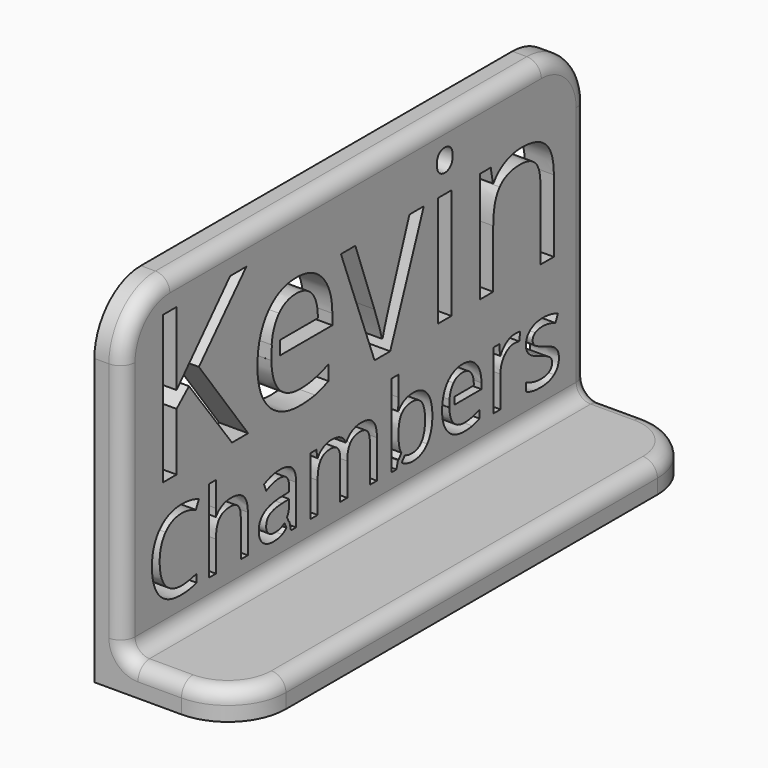
from build123d import *

# Parameters (mm, degrees)
F0_W     = 100
F0_H     = 54.1188832726
F0_W_2   = 2.8883255009
F0_H_2   = 19.060722236
F0_W_3   = 1.0477900505
F0_H_3   = 1.2339983105
F0_H_4   = 0.1005996912
F1_DEPTH = 5
F2_R     = 10
F3_W     = 25
F3_H     = 100
F4_DEPTH = 5
F5_R     = 10
F6_R     = 2.5


with BuildPart() as f1:
    # F0 (on Right) → F1 (new body)
    with BuildSketch(Plane.YZ):
        with Locations((50, 27.0594416363)):
            Rectangle(F0_W, F0_H)
        with BuildLine():
            add(Edge.make_bspline(
                [(15.5913314705, 16.4510364546), (14.0736889986, 17.1616089415), (12.5560465267, 17.1616089415)],
                knots=[0, 0, 0, 1, 1, 1], degree=2))
            add(Edge.make_bspline(
                [(12.5560465267, 17.1616089415), (10.3541490675, 17.1616089415), (9.0792124245, 15.6951393853)],
                knots=[0, 0, 0, 1, 1, 1], degree=2))
            add(Edge.make_bspline(
                [(9.0792124245, 15.6951393853), (7.8042757814, 14.2286698291), (7.8042757814, 11.678796543)],
                knots=[0, 0, 0, 1, 1, 1], degree=2))
            add(Edge.make_bspline(
                [(7.8042757814, 11.678796543), (7.8042757814, 9.0587432582), (9.033887842, 7.6273637013)],
                knots=[0, 0, 0, 1, 1, 1], degree=2))
            add(Edge.make_bspline(
                [(9.033887842, 7.6273637013), (10.2634999025, 6.1959841445), (12.5385015271, 6.1959841445)],
                knots=[0, 0, 0, 1, 1, 1], degree=2))
            add(Edge.make_bspline(
                [(12.5385015271, 6.1959841445), (13.9362531678, 6.1959841445), (15.7287673013, 6.6989408019)],
                knots=[0, 0, 0, 1, 1, 1], degree=2))
            Line((15.7287673013, 6.6989408019), (15.7287673013, 5.3392033271))
            add(Edge.make_bspline(
                [(15.7287673013, 5.3392033271), (14.3397881604, 4.8157775034), (12.3016440315, 4.8157775034)],
                knots=[0, 0, 0, 1, 1, 1], degree=2))
            add(Edge.make_bspline(
                [(12.3016440315, 4.8157775034), (9.3511599194, 4.8157775034), (7.7472545325, 6.6082916369)],
                knots=[0, 0, 0, 1, 1, 1], degree=2))
            add(Edge.make_bspline(
                [(7.7472545325, 6.6082916369), (6.1433491455, 8.4008057704), (6.1433491455, 11.6992657093)],
                knots=[0, 0, 0, 1, 1, 1], degree=2))
            add(Edge.make_bspline(
                [(6.1433491455, 11.6992657093), (6.1433491455, 13.7637273377), (6.9153291312, 15.316459809)],
                knots=[0, 0, 0, 1, 1, 1], degree=2))
            add(Edge.make_bspline(
                [(6.9153291312, 15.316459809), (7.6873091169, 16.8691922802), (9.1450061732, 17.7098901813)],
                knots=[0, 0, 0, 1, 1, 1], degree=2))
            add(Edge.make_bspline(
                [(9.1450061732, 17.7098901813), (10.6027032296, 18.5505880824), (12.576515693, 18.5505880824)],
                knots=[0, 0, 0, 1, 1, 1], degree=2))
            add(Edge.make_bspline(
                [(12.576515693, 18.5505880824), (14.6760673208, 18.5505880824), (16.2492689583, 17.7844564299)],
                knots=[0, 0, 0, 1, 1, 1], degree=2))
            Line((16.2492689583, 17.7844564299), (15.5913314705, 16.4510364546))
        make_face(mode=Mode.SUBTRACT)
        with BuildLine():
            Line((26.7879654299, 5), (25.270322958, 5))
            Line((25.270322958, 5), (25.270322958, 11.4799532133))
            add(Edge.make_bspline(
                [(25.270322958, 11.4799532133), (25.270322958, 12.7022548574), (24.7132692183, 13.3060952629)],
                knots=[0, 0, 0, 1, 1, 1], degree=2))
            add(Edge.make_bspline(
                [(24.7132692183, 13.3060952629), (24.1562154786, 13.9099356683), (22.9660796673, 13.9099356683)],
                knots=[0, 0, 0, 1, 1, 1], degree=2))
            add(Edge.make_bspline(
                [(22.9660796673, 13.9099356683), (21.3870296965, 13.9099356683), (20.6603742933, 13.0502306843)],
                knots=[0, 0, 0, 1, 1, 1], degree=2))
            add(Edge.make_bspline(
                [(20.6603742933, 13.0502306843), (19.9337188901, 12.1905257002), (19.9337188901, 10.237182403)],
                knots=[0, 0, 0, 1, 1, 1], degree=2))
            Line((19.9337188901, 10.237182403), (19.9337188901, 5))
            Line((19.9337188901, 5), (18.4160764182, 5))
            Line((18.4160764182, 5), (18.4160764182, 19.2202222367))
            Line((18.4160764182, 19.2202222367), (19.9337188901, 19.2202222367))
            Line((19.9337188901, 19.2202222367), (19.9337188901, 14.915848983))
            add(Edge.make_bspline(
                [(19.9337188901, 14.915848983), (19.9337188901, 14.1380206641), (19.8606147248, 13.6262915069)],
                knots=[0, 0, 0, 1, 1, 1], degree=2))
            Line((19.8606147248, 13.6262915069), (19.9512638898, 13.6262915069))
            add(Edge.make_bspline(
                [(19.9512638898, 13.6262915069), (20.3986613815, 14.3485606602), (21.2262005328, 14.7637923192)],
                knots=[0, 0, 0, 1, 1, 1], degree=2))
            add(Edge.make_bspline(
                [(21.2262005328, 14.7637923192), (22.0537396842, 15.1790239782), (23.1122879979, 15.1790239782)],
                knots=[0, 0, 0, 1, 1, 1], degree=2))
            add(Edge.make_bspline(
                [(23.1122879979, 15.1790239782), (24.9486646306, 15.1790239782), (25.8683150302, 14.3061602443)],
                knots=[0, 0, 0, 1, 1, 1], degree=2))
            add(Edge.make_bspline(
                [(25.8683150302, 14.3061602443), (26.7879654299, 13.4332965105), (26.7879654299, 11.5325882124)],
                knots=[0, 0, 0, 1, 1, 1], degree=2))
            Line((26.7879654299, 11.5325882124), (26.7879654299, 5))
        make_face(mode=Mode.SUBTRACT)
        with BuildLine():
            Line((35.660579687, 6.3949383283), (35.7361994684, 6.2300823629))
            Line((35.7361994684, 6.2300823629), (35.2652147412, 5.4408507422))
            Line((35.2652147412, 5.4408507422), (35.1057176172, 5.787440133))
            add(Edge.make_bspline(
                [(35.1057176172, 5.787440133), (34.648746513, 5.3554479644), (34.193417376, 5.1505945805)],
                knots=[0.3881632753, 0.3881632753, 0.3881632753, 1, 1, 1], degree=2))
            add(Edge.make_bspline(
                [(34.193417376, 5.1505945805), (33.4492169732, 4.8157775034), (32.3321853272, 4.8157775034)],
                knots=[0, 0, 0, 1, 1, 1], degree=2))
            add(Edge.make_bspline(
                [(32.3321853272, 4.8157775034), (30.8437845214, 4.8157775034), (29.9987003704, 5.5848333225)],
                knots=[0, 0, 0, 1, 1, 1], degree=2))
            add(Edge.make_bspline(
                [(29.9987003704, 5.5848333225), (29.1536162194, 6.3538891416), (29.1536162194, 7.7691857821)],
                knots=[0, 0, 0, 1, 1, 1], degree=2))
            add(Edge.make_bspline(
                [(29.1536162194, 7.7691857821), (29.1536162194, 10.8015465592), (34.0048086295, 10.9477548899)],
                knots=[0, 0, 0, 1, 1, 1], degree=2))
            Line((34.0048086295, 10.9477548899), (35.7037494314, 11.0033140555))
            Line((35.7037494314, 11.0033140555), (35.7037494314, 11.626161544))
            add(Edge.make_bspline(
                [(35.7037494314, 11.626161544), (35.7037494314, 12.8046006888), (35.1978686074, 13.3660406784)],
                knots=[0, 0, 0, 1, 1, 1], degree=2))
            add(Edge.make_bspline(
                [(35.1978686074, 13.3660406784), (34.6919877835, 13.927480668), (33.5749561375, 13.927480668)],
                knots=[0, 0, 0, 1, 1, 1], degree=2))
            add(Edge.make_bspline(
                [(33.5749561375, 13.927480668), (32.3234128273, 13.927480668), (30.7443628566, 13.1613490155)],
                knots=[0, 0, 0, 1, 1, 1], degree=2))
            Line((30.7443628566, 13.1613490155), (30.2764961986, 14.3222431607))
            add(Edge.make_bspline(
                [(30.2764961986, 14.3222431607), (31.0163103515, 14.7228539866), (31.8979465852, 14.9509389824)],
                knots=[0, 0, 0, 1, 1, 1], degree=2))
            add(Edge.make_bspline(
                [(31.8979465852, 14.9509389824), (32.7795828189, 15.1790239782), (33.6685294691, 15.1790239782)],
                knots=[0, 0, 0, 1, 1, 1], degree=2))
            add(Edge.make_bspline(
                [(33.6685294691, 15.1790239782), (35.458119436, 15.1790239782), (36.32221067, 14.3851127429)],
                knots=[0, 0, 0, 1, 1, 1], degree=2))
            add(Edge.make_bspline(
                [(36.32221067, 14.3851127429), (37.186301904, 13.5912015076), (37.186301904, 11.8367015401)],
                knots=[0, 0, 0, 1, 1, 1], degree=2))
            Line((37.186301904, 11.8367015401), (37.186301904, 5))
            Line((37.186301904, 5), (36.0604977581, 5))
            Line((36.0604977581, 5), (35.759308597, 6.4269933069))
            Line((35.759308597, 6.4269933069), (35.6862044317, 6.4269933069))
            add(Edge.make_bspline(
                [(35.6862044317, 6.4269933069), (35.6733914169, 6.4108769366), (35.660579687, 6.3949383283)],
                knots=[0, 0, 0, 0.0171162748, 0.0171162748, 0.0171162748], degree=2))
        make_face(mode=Mode.SUBTRACT)
        with BuildLine():
            Line((54.5909415816, 5), (53.0762232764, 5))
            Line((53.0762232764, 5), (53.0762232764, 11.5150432127))
            add(Edge.make_bspline(
                [(53.0762232764, 11.5150432127), (53.0762232764, 12.7139515238), (52.5644941192, 13.3119435961)],
                knots=[0, 0, 0, 1, 1, 1], degree=2))
            add(Edge.make_bspline(
                [(52.5644941192, 13.3119435961), (52.052764962, 13.9099356683), (50.973747482, 13.9099356683)],
                knots=[0, 0, 0, 1, 1, 1], degree=2))
            add(Edge.make_bspline(
                [(50.973747482, 13.9099356683), (49.5584508415, 13.9099356683), (48.8815062707, 13.0970173501)],
                knots=[0, 0, 0, 1, 1, 1], degree=2))
            add(Edge.make_bspline(
                [(48.8815062707, 13.0970173501), (48.2045616999, 12.2840990318), (48.2045616999, 10.5939307297)],
                knots=[0, 0, 0, 1, 1, 1], degree=2))
            Line((48.2045616999, 10.5939307297), (48.2045616999, 5))
            Line((48.2045616999, 5), (46.686919228, 5))
            Line((46.686919228, 5), (46.686919228, 11.5150432127))
            add(Edge.make_bspline(
                [(46.686919228, 11.5150432127), (46.686919228, 12.7139515238), (46.1751900708, 13.3119435961)],
                knots=[0, 0, 0, 1, 1, 1], degree=2))
            add(Edge.make_bspline(
                [(46.1751900708, 13.3119435961), (45.6634609136, 13.9099356683), (44.5756709338, 13.9099356683)],
                knots=[0, 0, 0, 1, 1, 1], degree=2))
            add(Edge.make_bspline(
                [(44.5756709338, 13.9099356683), (43.1516017935, 13.9099356683), (42.4892780558, 13.0560790175)],
                knots=[0, 0, 0, 1, 1, 1], degree=2))
            add(Edge.make_bspline(
                [(42.4892780558, 13.0560790175), (41.826954318, 12.2022223666), (41.826954318, 10.2547274027)],
                knots=[0, 0, 0, 1, 1, 1], degree=2))
            Line((41.826954318, 10.2547274027), (41.826954318, 5))
            Line((41.826954318, 5), (40.3093118461, 5))
            Line((40.3093118461, 5), (40.3093118461, 15.0152706479))
            Line((40.3093118461, 15.0152706479), (41.5433101566, 15.0152706479))
            Line((41.5433101566, 15.0152706479), (41.7889401521, 13.6438365066))
            Line((41.7889401521, 13.6438365066), (41.8620443174, 13.6438365066))
            add(Edge.make_bspline(
                [(41.8620443174, 13.6438365066), (42.2918968094, 14.3748781597), (43.0741113783, 14.7871856521)],
                knots=[0, 0, 0, 1, 1, 1], degree=2))
            add(Edge.make_bspline(
                [(43.0741113783, 14.7871856521), (43.8563259471, 15.1994931445), (44.8242250958, 15.1994931445)],
                knots=[0, 0, 0, 1, 1, 1], degree=2))
            add(Edge.make_bspline(
                [(44.8242250958, 15.1994931445), (47.1723308857, 15.1994931445), (47.894600039, 13.497628176)],
                knots=[0, 0, 0, 1, 1, 1], degree=2))
            Line((47.894600039, 13.497628176), (47.9677042043, 13.497628176))
            add(Edge.make_bspline(
                [(47.9677042043, 13.497628176), (48.415101696, 14.2842289947), (49.264572097, 14.7418610696)],
                knots=[0, 0, 0, 1, 1, 1], degree=2))
            add(Edge.make_bspline(
                [(49.264572097, 14.7418610696), (50.1140424979, 15.1994931445), (51.2018324777, 15.1994931445)],
                knots=[0, 0, 0, 1, 1, 1], degree=2))
            add(Edge.make_bspline(
                [(51.2018324777, 15.1994931445), (52.9007732796, 15.1994931445), (53.7458574306, 14.3266294106)],
                knots=[0, 0, 0, 1, 1, 1], degree=2))
            add(Edge.make_bspline(
                [(53.7458574306, 14.3266294106), (54.5909415816, 13.4537656768), (54.5909415816, 11.5325882124)],
                knots=[0, 0, 0, 1, 1, 1], degree=2))
            Line((54.5909415816, 11.5325882124), (54.5909415816, 5))
        make_face(mode=Mode.SUBTRACT)
        with BuildLine():
            Line((59.779737305, 5.355670914), (59.2096596956, 6.2300823629))
            Line((59.2096596956, 6.2300823629), (59.2445982209, 6.2757675735))
            add(Edge.make_bspline(
                [(59.2445982209, 6.2757675735), (59.2395471238, 6.2826460158), (59.2345181623, 6.2895574761)],
                knots=[0.9908032457, 0.9908032457, 0.9908032457, 1, 1, 1], degree=2))
            Line((59.2345181623, 6.2895574761), (59.123399831, 6.2895574761))
            Line((59.123399831, 6.2895574761), (58.8046656703, 5))
            Line((58.8046656703, 5), (57.7168756904, 5))
            Line((57.7168756904, 5), (57.7168756904, 19.2202222367))
            Line((57.7168756904, 19.2202222367), (59.2345181623, 19.2202222367))
            Line((59.2345181623, 19.2202222367), (59.2345181623, 15.7638573007))
            add(Edge.make_bspline(
                [(59.2345181623, 15.7638573007), (59.2345181623, 14.6029631555), (59.161413997, 13.6818506726)],
                knots=[0, 0, 0, 1, 1, 1], degree=2))
            Line((59.161413997, 13.6818506726), (59.2345181623, 13.6818506726))
            add(Edge.make_bspline(
                [(59.2345181623, 13.6818506726), (60.2930664761, 15.1790239782), (62.3779972708, 15.1790239782)],
                knots=[0, 0, 0, 1, 1, 1], degree=2))
            add(Edge.make_bspline(
                [(62.3779972708, 15.1790239782), (64.3518097342, 15.1790239782), (65.443985964, 13.8309831698)],
                knots=[0, 0, 0, 1, 1, 1], degree=2))
            add(Edge.make_bspline(
                [(65.443985964, 13.8309831698), (66.5361621938, 12.4829423614), (66.5361621938, 10.0178699071)],
                knots=[0, 0, 0, 1, 1, 1], degree=2))
            add(Edge.make_bspline(
                [(66.5361621938, 10.0178699071), (66.5361621938, 7.5498732861), (65.4352134642, 6.1828253948)],
                knots=[0, 0, 0, 1, 1, 1], degree=2))
            add(Edge.make_bspline(
                [(65.4352134642, 6.1828253948), (64.3342647346, 4.8157775034), (62.3779972708, 4.8157775034)],
                knots=[0, 0, 0, 1, 1, 1], degree=2))
            add(Edge.make_bspline(
                [(62.3779972708, 4.8157775034), (61.3984014556, 4.8157775034), (60.5898693872, 5.1769120801)],
                knots=[0, 0, 0, 1, 1, 1], degree=2))
            add(Edge.make_bspline(
                [(60.5898693872, 5.1769120801), (60.2395652405, 5.3333770425), (59.9383882027, 5.5631209885)],
                knots=[0, 0, 0, 0.4332594345, 0.4332594345, 0.4332594345], degree=2))
            Line((59.9383882027, 5.5631209885), (59.779737305, 5.355670914))
        make_face(mode=Mode.SUBTRACT)
        with BuildLine():
            Line((71.2961256504, 9.2088952661), (70.2483355999, 9.5830531791))
            Line((70.2483355999, 9.5830531791), (70.2483355999, 9.7342257457))
            Line((70.2483355999, 9.7342257457), (70.2001429593, 9.7342257457))
            add(Edge.make_bspline(
                [(70.2001429593, 9.7342257457), (70.2469296251, 7.9709532783), (71.0920137761, 7.0571512119)],
                knots=[0, 0, 0, 1, 1, 1], degree=2))
            add(Edge.make_bspline(
                [(71.0920137761, 7.0571512119), (71.9370979271, 6.1433491455), (73.4722853987, 6.1433491455)],
                knots=[0, 0, 0, 1, 1, 1], degree=2))
            add(Edge.make_bspline(
                [(73.4722853987, 6.1433491455), (75.0893495354, 6.1433491455), (76.6683995061, 6.818831633)],
                knots=[0, 0, 0, 1, 1, 1], degree=2))
            Line((76.6683995061, 6.818831633), (76.6683995061, 5.4649424914))
            add(Edge.make_bspline(
                [(76.6683995061, 5.4649424914), (75.8642536877, 5.1198908311), (75.1478328676, 4.9678341673)],
                knots=[0, 0, 0, 1, 1, 1], degree=2))
            add(Edge.make_bspline(
                [(75.1478328676, 4.9678341673), (74.4314120476, 4.8157775034), (73.416726233, 4.8157775034)],
                knots=[0, 0, 0, 1, 1, 1], degree=2))
            add(Edge.make_bspline(
                [(73.416726233, 4.8157775034), (71.1972837741, 4.8157775034), (69.9121125479, 6.169666645)],
                knots=[0, 0, 0, 1, 1, 1], degree=2))
            add(Edge.make_bspline(
                [(69.9121125479, 6.169666645), (68.6269413217, 7.5235557866), (68.6269413217, 9.9242965755)],
                knots=[0, 0, 0, 1, 1, 1], degree=2))
            add(Edge.make_bspline(
                [(68.6269413217, 9.9242965755), (68.6269413217, 12.3484306973), (69.8200012996, 13.7739619209)],
                knots=[0, 0, 0, 1, 1, 1], degree=2))
            add(Edge.make_bspline(
                [(69.8200012996, 13.7739619209), (71.0130612775, 15.1994931445), (73.0248879069, 15.1994931445)],
                knots=[0, 0, 0, 1, 1, 1], degree=2))
            add(Edge.make_bspline(
                [(73.0248879069, 15.1994931445), (74.9051270388, 15.1994931445), (76.0016895185, 13.9611085841)],
                knots=[0, 0, 0, 1, 1, 1], degree=2))
            add(Edge.make_bspline(
                [(76.0016895185, 13.9611085841), (77.0982519982, 12.7227240237), (77.0982519982, 10.6933523946)],
                knots=[0, 0, 0, 1, 1, 1], degree=2))
            Line((77.0982519982, 10.6933523946), (77.0982519982, 9.7342257457))
            Line((77.0982519982, 9.7342257457), (71.2961256504, 9.7342257457))
            Line((71.2961256504, 9.7342257457), (71.2961256504, 9.2088952661))
        make_face(mode=Mode.SUBTRACT)
        with BuildLine():
            add(Edge.make_bspline(
                [(82.5284293976, 14.6687569043), (83.3150302164, 15.1994931445), (84.2566118656, 15.1994931445)],
                knots=[0, 0, 0, 1, 1, 1], degree=2))
            add(Edge.make_bspline(
                [(84.2566118656, 15.1994931445), (84.9233218533, 15.1994931445), (85.4525960101, 15.0883748132)],
                knots=[0, 0, 0, 1, 1, 1], degree=2))
            Line((85.4525960101, 15.0883748132), (85.242056014, 13.6818506726))
            add(Edge.make_bspline(
                [(85.242056014, 13.6818506726), (84.6221326922, 13.8192865033), (84.1454935343, 13.8192865033)],
                knots=[0, 0, 0, 1, 1, 1], degree=2))
            add(Edge.make_bspline(
                [(84.1454935343, 13.8192865033), (82.9290402235, 13.8192865033), (82.0664110728, 12.8323802716)],
                knots=[0, 0, 0, 1, 1, 1], degree=2))
            add(Edge.make_bspline(
                [(82.0664110728, 12.8323802716), (81.2037819222, 11.8454740399), (81.2037819222, 10.3746182338)],
                knots=[0, 0, 0, 1, 1, 1], degree=2))
            Line((81.2037819222, 10.3746182338), (81.2037819222, 5))
            Line((81.2037819222, 5), (79.6861394503, 5))
            Line((79.6861394503, 5), (79.6861394503, 15.0152706479))
            Line((79.6861394503, 15.0152706479), (80.9376827604, 15.0152706479))
            Line((80.9376827604, 15.0152706479), (81.1131327572, 13.1613490155))
            Line((81.1131327572, 13.1613490155), (81.1862369225, 13.1613490155))
            add(Edge.make_bspline(
                [(81.1862369225, 13.1613490155), (81.7418285789, 14.1380206641), (82.5284293976, 14.6687569043)],
                knots=[0, 0, 0, 1, 1, 1], degree=2))
        make_face(mode=Mode.SUBTRACT)
        with BuildLine():
            add(Edge.make_bspline(
                [(93.1606992007, 9.3862499188), (93.7864708558, 8.728312431), (93.7864708558, 7.7311716161)],
                knots=[0, 0, 0, 1, 1, 1], degree=2))
            add(Edge.make_bspline(
                [(93.7864708558, 7.7311716161), (93.7864708558, 6.3334199753), (92.7454675418, 5.5745987394)],
                knots=[0, 0, 0, 1, 1, 1], degree=2))
            add(Edge.make_bspline(
                [(92.7454675418, 5.5745987394), (91.7044642277, 4.8157775034), (89.8213009292, 4.8157775034)],
                knots=[0, 0, 0, 1, 1, 1], degree=2))
            add(Edge.make_bspline(
                [(89.8213009292, 4.8157775034), (87.8299434661, 4.8157775034), (86.7158359867, 5.4473974917)],
                knots=[0, 0, 0, 1, 1, 1], degree=2))
            Line((86.7158359867, 5.4473974917), (86.7158359867, 6.8539216323))
            add(Edge.make_bspline(
                [(86.7158359867, 6.8539216323), (87.43810514, 6.4884008058), (88.2641822081, 6.279322893)],
                knots=[0, 0, 0, 1, 1, 1], degree=2))
            add(Edge.make_bspline(
                [(88.2641822081, 6.279322893), (89.0902592761, 6.0702449802), (89.8593150952, 6.0702449802)],
                knots=[0, 0, 0, 1, 1, 1], degree=2))
            add(Edge.make_bspline(
                [(89.8593150952, 6.0702449802), (91.0465267399, 6.0702449802), (91.6854571447, 6.4489245565)],
                knots=[0, 0, 0, 1, 1, 1], degree=2))
            add(Edge.make_bspline(
                [(91.6854571447, 6.4489245565), (92.3243875495, 6.8276041328), (92.3243875495, 7.6054324518)],
                knots=[0, 0, 0, 1, 1, 1], degree=2))
            add(Edge.make_bspline(
                [(92.3243875495, 7.6054324518), (92.3243875495, 8.1902657743), (91.8185067256, 8.6054974332)],
                knots=[0, 0, 0, 1, 1, 1], degree=2))
            add(Edge.make_bspline(
                [(91.8185067256, 8.6054974332), (91.3126259016, 9.0207290922), (89.8388459289, 9.588017415)],
                knots=[0, 0, 0, 1, 1, 1], degree=2))
            add(Edge.make_bspline(
                [(89.8388459289, 9.588017415), (88.4410942881, 10.1085190721), (87.8518747157, 10.4974332315)],
                knots=[0, 0, 0, 1, 1, 1], degree=2))
            add(Edge.make_bspline(
                [(87.8518747157, 10.4974332315), (87.2626551433, 10.886347391), (86.974624732, 11.3790694652)],
                knots=[0, 0, 0, 1, 1, 1], degree=2))
            add(Edge.make_bspline(
                [(86.974624732, 11.3790694652), (86.6865943206, 11.8717915394), (86.6865943206, 12.5560465267)],
                knots=[0, 0, 0, 1, 1, 1], degree=2))
            add(Edge.make_bspline(
                [(86.6865943206, 12.5560465267), (86.6865943206, 13.7812723374), (87.6837351355, 14.4903827409)],
                knots=[0, 0, 0, 1, 1, 1], degree=2))
            add(Edge.make_bspline(
                [(87.6837351355, 14.4903827409), (88.6808759504, 15.1994931445), (90.4149067516, 15.1994931445)],
                knots=[0, 0, 0, 1, 1, 1], degree=2))
            add(Edge.make_bspline(
                [(90.4149067516, 15.1994931445), (92.0319708883, 15.1994931445), (93.5788550263, 14.5415556566)],
                knots=[0, 0, 0, 1, 1, 1], degree=2))
            Line((93.5788550263, 14.5415556566), (93.037884203, 13.3075573462))
            add(Edge.make_bspline(
                [(93.037884203, 13.3075573462), (91.5319383976, 13.927480668), (90.3067125869, 13.927480668)],
                knots=[0, 0, 0, 1, 1, 1], degree=2))
            add(Edge.make_bspline(
                [(90.3067125869, 13.927480668), (89.2276951069, 13.927480668), (88.679413867, 13.5897394243)],
                knots=[0, 0, 0, 1, 1, 1], degree=2))
            add(Edge.make_bspline(
                [(88.679413867, 13.5897394243), (88.1311326272, 13.2519981805), (88.1311326272, 12.6583923582)],
                knots=[0, 0, 0, 1, 1, 1], degree=2))
            add(Edge.make_bspline(
                [(88.1311326272, 12.6583923582), (88.1311326272, 12.2548573657), (88.3372863734, 11.9726752875)],
                knots=[0, 0, 0, 1, 1, 1], degree=2))
            add(Edge.make_bspline(
                [(88.3372863734, 11.9726752875), (88.5434401196, 11.6904932094), (88.9996101111, 11.4346286308)],
                knots=[0, 0, 0, 1, 1, 1], degree=2))
            add(Edge.make_bspline(
                [(88.9996101111, 11.4346286308), (89.4557801027, 11.1787640522), (90.7541100786, 10.6933523946)],
                knots=[0, 0, 0, 1, 1, 1], degree=2))
            add(Edge.make_bspline(
                [(90.7541100786, 10.6933523946), (92.5349275456, 10.0441874066), (93.1606992007, 9.3862499188)],
                knots=[0, 0, 0, 1, 1, 1], degree=2))
        make_face(mode=Mode.SUBTRACT)
        Polygon((16.2527825872, 37.8549703367), (26.8600049468, 23.4745597505), (23.3817709622, 23.4745597505), (14.115755627, 35.8069861665), (11.4500371012, 33.4417870569), (11.4500371012, 23.4745597505), (8.4949295078, 23.4745597505), (8.4949295078, 48.901841472), (11.4500371012, 48.901841472), (11.4500371012, 36.2911563372), (22.9810784071, 48.901841472), (26.4760079149, 48.901841472), align=None, mode=Mode.SUBTRACT)
        with BuildLine():
            Line((31.853530556, 32.4618853629), (31.8546368571, 32.4845770643))
            Line((31.8546368571, 32.4845770643), (31.8519663616, 32.4845770643))
            add(Edge.make_bspline(
                [(31.8519663616, 32.4845770643), (31.9410091516, 29.1287769159), (33.5493445461, 27.3896599236)],
                knots=[0, 0, 0, 1, 1, 1], degree=2))
            add(Edge.make_bspline(
                [(33.5493445461, 27.3896599236), (35.1576799406, 25.6505429313), (38.0793964878, 25.6505429313)],
                knots=[0, 0, 0, 1, 1, 1], degree=2))
            add(Edge.make_bspline(
                [(38.0793964878, 25.6505429313), (41.1569379174, 25.6505429313), (44.1621320801, 26.936098212)],
                knots=[0, 0, 0, 1, 1, 1], degree=2))
            Line((44.1621320801, 26.936098212), (44.1621320801, 24.3594224762))
            add(Edge.make_bspline(
                [(44.1621320801, 24.3594224762), (42.6317091269, 23.7027318999), (41.2682414049, 23.4133428323)],
                knots=[0, 0, 0, 1, 1, 1], degree=2))
            add(Edge.make_bspline(
                [(41.2682414049, 23.4133428323), (39.9047736829, 23.1239537648), (37.9736581746, 23.1239537648)],
                knots=[0, 0, 0, 1, 1, 1], degree=2))
            add(Edge.make_bspline(
                [(37.9736581746, 23.1239537648), (33.7496908236, 23.1239537648), (31.3037966856, 25.7006295007)],
                knots=[0, 0, 0, 1, 1, 1], degree=2))
            add(Edge.make_bspline(
                [(31.3037966856, 25.7006295007), (28.8579025476, 28.2773052365), (28.8579025476, 32.8463133988)],
                knots=[0, 0, 0, 1, 1, 1], degree=2))
            add(Edge.make_bspline(
                [(28.8579025476, 32.8463133988), (28.8579025476, 37.459842956), (31.1284936928, 40.1728654641)],
                knots=[0, 0, 0, 1, 1, 1], degree=2))
            add(Edge.make_bspline(
                [(31.1284936928, 40.1728654641), (33.399084838, 42.8858879721), (37.2279248083, 42.8858879721)],
                knots=[0, 0, 0, 1, 1, 1], degree=2))
            add(Edge.make_bspline(
                [(37.2279248083, 42.8858879721), (40.8063319317, 42.8858879721), (42.8932723225, 40.5290366241)],
                knots=[0, 0, 0, 1, 1, 1], degree=2))
            add(Edge.make_bspline(
                [(42.8932723225, 40.5290366241), (44.9802127133, 38.1721852761), (44.9802127133, 34.3099542595)],
                knots=[0, 0, 0, 1, 1, 1], degree=2))
            Line((44.9802127133, 34.3099542595), (44.9802127133, 32.4845770643))
            Line((44.9802127133, 32.4845770643), (33.6671692756, 32.4845770643))
            Line((33.6671692756, 32.4845770643), (33.6667411029, 32.4618853629))
            Line((33.6667411029, 32.4618853629), (31.853530556, 32.4618853629))
        make_face(mode=Mode.SUBTRACT)
        with BuildLine():
            Line((57.4517684887, 23.4745597505), (54.0792728172, 23.4745597505))
            Line((54.0792728172, 23.4745597505), (46.8445461291, 42.5352819864))
            Line((46.8445461291, 42.5352819864), (49.9387830819, 42.5352819864))
            Line((49.9387830819, 42.5352819864), (54.045881771, 31.2324128299))
            add(Edge.make_bspline(
                [(54.045881771, 31.2324128299), (55.4371753648, 27.2644435002), (55.6820430373, 26.0846265326)],
                knots=[0, 0, 0, 1, 1, 1], degree=2))
            Line((55.6820430373, 26.0846265326), (55.8211723967, 26.0846265326))
            add(Edge.make_bspline(
                [(55.8211723967, 26.0846265326), (56.0103883255, 27.0028803045), (57.0288152362, 29.8995535669)],
                knots=[0, 0, 0, 1, 1, 1], degree=2))
            add(Edge.make_bspline(
                [(57.0288152362, 29.8995535669), (58.0472421469, 32.7962268294), (61.5922582241, 42.5352819864)],
                knots=[0, 0, 0, 1, 1, 1], degree=2))
            Line((61.5922582241, 42.5352819864), (64.6864951768, 42.5352819864))
            Line((64.6864951768, 42.5352819864), (57.4517684887, 23.4745597505))
        make_face(mode=Mode.SUBTRACT)
        with Locations((69.1915038338, 33.0049208685)):
            Rectangle(F0_W_2, F0_H_2, mode=Mode.SUBTRACT)
        with BuildLine():
            Line((92.6904526342, 23.4745597505), (89.8021271333, 23.4745597505))
            Line((89.8021271333, 23.4745597505), (89.8021271333, 35.8069861665))
            add(Edge.make_bspline(
                [(89.8021271333, 35.8069861665), (89.8021271333, 38.1332290554), (88.7419614148, 39.282437564)],
                knots=[0, 0, 0, 1, 1, 1], degree=2))
            add(Edge.make_bspline(
                [(88.7419614148, 39.282437564), (87.6817956963, 40.4316460725), (85.4167697255, 40.4316460725)],
                knots=[0, 0, 0, 1, 1, 1], degree=2))
            add(Edge.make_bspline(
                [(85.4167697255, 40.4316460725), (82.4282710858, 40.4316460725), (81.036977492, 38.8149629164)],
                knots=[0, 0, 0, 1, 1, 1], degree=2))
            add(Edge.make_bspline(
                [(81.036977492, 38.8149629164), (79.6456838981, 37.1982797604), (79.6456838981, 33.4751781032)],
                knots=[0, 0, 0, 1, 1, 1], degree=2))
            Line((79.6456838981, 33.4751781032), (79.6456838981, 23.4745597505))
            Line((79.6456838981, 23.4745597505), (76.7573583972, 23.4745597505))
            Line((76.7573583972, 23.4745597505), (76.7573583972, 42.5352819864))
            Line((76.7573583972, 42.5352819864), (79.1058619837, 42.5352819864))
            Line((79.1058619837, 42.5352819864), (79.5733366312, 39.9252152043))
            Line((79.5733366312, 39.9252152043), (79.7124659906, 39.9252152043))
            add(Edge.make_bspline(
                [(79.7124659906, 39.9252152043), (80.6028938907, 41.3332043213), (82.2028815236, 42.1095461467)],
                knots=[0, 0, 0, 1, 1, 1], degree=2))
            add(Edge.make_bspline(
                [(82.2028815236, 42.1095461467), (83.8028691566, 42.8858879721), (85.7673757111, 42.8858879721)],
                knots=[0, 0, 0, 1, 1, 1], degree=2))
            add(Edge.make_bspline(
                [(85.7673757111, 42.8858879721), (89.2122186495, 42.8858879721), (90.9513356419, 41.224683421)],
                knots=[0, 0, 0, 1, 1, 1], degree=2))
            add(Edge.make_bspline(
                [(90.9513356419, 41.224683421), (92.6904526342, 39.5634788699), (92.6904526342, 35.9071593053)],
                knots=[0, 0, 0, 1, 1, 1], degree=2))
            Line((92.6904526342, 35.9071593053), (92.6904526342, 23.4745597505))
        make_face(mode=Mode.SUBTRACT)
        with BuildLine():
            add(Edge.make_bspline(
                [(67.9894261687, 46.2472532949), (67.5024734108, 46.7258582912), (67.5024734108, 47.6997638069)],
                knots=[0, 0, 0, 1, 1, 1], degree=2))
            add(Edge.make_bspline(
                [(67.5024734108, 47.6997638069), (67.5024734108, 48.6903648457), (67.9894261687, 49.1522743189)],
                knots=[0, 0, 0, 1, 1, 1], degree=2))
            add(Edge.make_bspline(
                [(67.9894261687, 49.1522743189), (68.4763789265, 49.614183792), (69.2109819441, 49.614183792)],
                knots=[0, 0, 0, 1, 1, 1], degree=2))
            add(Edge.make_bspline(
                [(69.2109819441, 49.614183792), (69.906628741, 49.614183792), (70.410277022, 49.1439265573)],
                knots=[0, 0, 0, 1, 1, 1], degree=2))
            add(Edge.make_bspline(
                [(70.410277022, 49.1439265573), (70.913925303, 48.6736693226), (70.913925303, 47.6997638069)],
                knots=[0, 0, 0, 1, 1, 1], degree=2))
            add(Edge.make_bspline(
                [(70.913925303, 47.6997638069), (70.913925303, 46.7258582912), (70.410277022, 46.2472532949)],
                knots=[0, 0, 0, 1, 1, 1], degree=2))
            add(Edge.make_bspline(
                [(70.410277022, 46.2472532949), (69.906628741, 45.7686482986), (69.2109819441, 45.7686482986)],
                knots=[0, 0, 0, 1, 1, 1], degree=2))
            add(Edge.make_bspline(
                [(69.2109819441, 45.7686482986), (68.4763789265, 45.7686482986), (67.9894261687, 46.2472532949)],
                knots=[0, 0, 0, 1, 1, 1], degree=2))
        make_face(mode=Mode.SUBTRACT)
        with BuildLine():
            Line((31.9691347595, 34.8330806508), (31.9724529982, 34.9011421204))
            Line((31.9724529982, 34.9011421204), (33.7119065225, 34.8554998636))
            Line((33.7119065225, 34.8554998636), (33.7114834915, 34.8330806508))
            Line((33.7114834915, 34.8330806508), (41.8859757606, 34.8330806508))
            add(Edge.make_bspline(
                [(41.8859757606, 34.8330806508), (41.8859757606, 37.5600160948), (40.6699851595, 39.0125266068)],
                knots=[0, 0, 0, 1, 1, 1], degree=2))
            add(Edge.make_bspline(
                [(40.6699851595, 39.0125266068), (39.4539945585, 40.4650371188), (37.1889685877, 40.4650371188)],
                knots=[0, 0, 0, 1, 1, 1], degree=2))
            add(Edge.make_bspline(
                [(37.1889685877, 40.4650371188), (34.896116745, 40.4650371188), (33.5298664358, 38.9707877989)],
                knots=[0, 0, 0, 1, 1, 1], degree=2))
            add(Edge.make_bspline(
                [(33.5298664358, 38.9707877989), (32.1636161266, 37.4765384791), (31.9187484541, 34.8330806508)],
                knots=[0, 0, 0, 1, 1, 1], degree=2))
            Line((31.9187484541, 34.8330806508), (31.9691347595, 34.8330806508))
        make_face()
        with BuildLine():
            add(Edge.make_bspline(
                [(59.2345181623, 10.0178699071), (59.2345181623, 8.0129592618), (59.8687216339, 7.0918641127)],
                knots=[0, 0, 0, 0.9496328076, 0.9496328076, 0.9496328076], degree=2))
            Line((59.8687216339, 7.0918641127), (59.8888210952, 7.1181459352))
            Line((59.8888210952, 7.1181459352), (60.670462407, 6.5203727309))
            Line((60.670462407, 6.5203727309), (60.6034279902, 6.4327193046))
            add(Edge.make_bspline(
                [(60.6034279902, 6.4327193046), (61.2375049693, 6.0877899799), (62.1937747742, 6.0877899799)],
                knots=[0.3841374334, 0.3841374334, 0.3841374334, 1, 1, 1], degree=2))
            add(Edge.make_bspline(
                [(62.1937747742, 6.0877899799), (63.591526415, 6.0877899799), (64.2772434856, 7.1068620443)],
                knots=[0, 0, 0, 1, 1, 1], degree=2))
            add(Edge.make_bspline(
                [(64.2772434856, 7.1068620443), (64.9629605562, 8.1259341088), (64.9629605562, 10.0354149068)],
                knots=[0, 0, 0, 1, 1, 1], degree=2))
            add(Edge.make_bspline(
                [(64.9629605562, 10.0354149068), (64.9629605562, 11.9916823705), (64.2772434856, 12.9508090194)],
                knots=[0, 0, 0, 1, 1, 1], degree=2))
            add(Edge.make_bspline(
                [(64.2772434856, 12.9508090194), (63.591526415, 13.9099356683), (62.1586847748, 13.9099356683)],
                knots=[0, 0, 0, 1, 1, 1], degree=2))
            add(Edge.make_bspline(
                [(62.1586847748, 13.9099356683), (60.6059523036, 13.9099356683), (59.920235233, 13.0195269348)],
                knots=[0, 0, 0, 1, 1, 1], degree=2))
            add(Edge.make_bspline(
                [(59.920235233, 13.0195269348), (59.2345181623, 12.1291182013), (59.2345181623, 10.0178699071)],
                knots=[0, 0, 0, 1, 1, 1], degree=2))
        make_face()
        with BuildLine():
            Line((35.2306142449, 7.3322905228), (35.2392452391, 7.3134744029))
            add(Edge.make_bspline(
                [(35.2392452391, 7.3134744029), (35.6686594321, 8.0020917729), (35.6686594321, 9.0207290922)],
                knots=[0.2712315338, 0.2712315338, 0.2712315338, 1, 1, 1], degree=2))
            Line((35.6686594321, 9.0207290922), (35.6686594321, 9.9242965755))
            Line((35.6686594321, 9.9242965755), (34.1510169602, 9.8628890766))
            add(Edge.make_bspline(
                [(34.1510169602, 9.8628890766), (32.340957827, 9.7985574111), (31.5426603418, 9.2999870037)],
                knots=[0, 0, 0, 1, 1, 1], degree=2))
            add(Edge.make_bspline(
                [(31.5426603418, 9.2999870037), (30.7443628566, 8.8014165963), (30.7443628566, 7.7516407824)],
                knots=[0, 0, 0, 1, 1, 1], degree=2))
            add(Edge.make_bspline(
                [(30.7443628566, 7.7516407824), (30.7443628566, 6.9270257976), (31.2414711807, 6.4986353889)],
                knots=[0, 0, 0, 1, 1, 1], degree=2))
            add(Edge.make_bspline(
                [(31.2414711807, 6.4986353889), (31.7385795048, 6.0702449802), (32.6333744883, 6.0702449802)],
                knots=[0, 0, 0, 1, 1, 1], degree=2))
            add(Edge.make_bspline(
                [(32.6333744883, 6.0702449802), (33.9061160766, 6.0702449802), (34.6878356786, 6.695503193)],
                knots=[0, 0, 0, 0.8974213197, 0.8974213197, 0.8974213197], degree=2))
            Line((34.6878356786, 6.695503193), (34.6436239779, 6.7915758118))
            Line((34.6436239779, 6.7915758118), (35.2306142449, 7.3322905228))
        make_face()
        with BuildLine():
            Line((70.2352329586, 10.9682240561), (70.2483355999, 10.9682240561))
            Line((70.2483355999, 10.9682240561), (70.2483355999, 11.0688237473))
            Line((70.2483355999, 11.0688237473), (71.2961256504, 11.0688237473))
            Line((71.2961256504, 11.0688237473), (71.2961256504, 10.9682240561))
            Line((71.2961256504, 10.9682240561), (75.4724153616, 10.9682240561))
            add(Edge.make_bspline(
                [(75.4724153616, 10.9682240561), (75.4724153616, 12.4010656963), (74.8334849568, 13.1642731821)],
                knots=[0, 0, 0, 1, 1, 1], degree=2))
            add(Edge.make_bspline(
                [(74.8334849568, 13.1642731821), (74.194554552, 13.927480668), (73.0044187407, 13.927480668)],
                knots=[0, 0, 0, 1, 1, 1], degree=2))
            add(Edge.make_bspline(
                [(73.0044187407, 13.927480668), (71.7996620963, 13.927480668), (71.0817791929, 13.1423419325)],
                knots=[0, 0, 0, 1, 1, 1], degree=2))
            add(Edge.make_bspline(
                [(71.0817791929, 13.1423419325), (70.3638962896, 12.3572031971), (70.2352329586, 10.9682240561)],
                knots=[0, 0, 0, 1, 1, 1], degree=2))
        make_face()
        Polygon((33.7114834915, 34.8330806508), (31.9691347595, 34.8330806508), (31.8546368571, 32.4845770643), (33.6671692756, 32.4845770643), align=None)
        with Locations((70.7722306252, 10.3512249009)):
            Rectangle(F0_W_3, F0_H_3)
        with BuildLine():
            Line((59.8687216339, 7.0918641127), (59.2445982209, 6.2757675735))
            add(Edge.make_bspline(
                [(59.9383882027, 5.5631209885), (59.5508158149, 5.8587690578), (59.2445982209, 6.2757675735)],
                knots=[0.4332594345, 0.4332594345, 0.4332594345, 0.9908032457, 0.9908032457, 0.9908032457], degree=2))
            Line((59.9383882027, 5.5631209885), (60.6034279902, 6.4327193046))
            add(Edge.make_bspline(
                [(59.9377802326, 6.9972057963), (60.2079295194, 6.6478651387), (60.6034279902, 6.4327193046)],
                knots=[0, 0, 0, 0.3841374334, 0.3841374334, 0.3841374334], degree=2))
            add(Edge.make_bspline(
                [(59.8687216339, 7.0918641127), (59.9023588967, 7.0430105177), (59.9377802326, 6.9972057963)],
                knots=[0.9496328076, 0.9496328076, 0.9496328076, 1, 1, 1], degree=2))
        make_face()
        with BuildLine():
            add(Edge.make_bspline(
                [(35.660579687, 6.3949383283), (35.3828467117, 6.0494208085), (35.1057176172, 5.787440133)],
                knots=[0.0171162748, 0.0171162748, 0.0171162748, 0.3881632753, 0.3881632753, 0.3881632753], degree=2))
            Line((35.660579687, 6.3949383283), (35.2392452391, 7.3134744029))
            add(Edge.make_bspline(
                [(34.8601273637, 6.8466112158), (35.0794267567, 7.0571862207), (35.2392452391, 7.3134744029)],
                knots=[0, 0, 0, 0.2712315338, 0.2712315338, 0.2712315338], degree=2))
            add(Edge.make_bspline(
                [(34.6878356786, 6.695503193), (34.7771892112, 6.7669725919), (34.8601273637, 6.8466112158)],
                knots=[0.8974213197, 0.8974213197, 0.8974213197, 1, 1, 1], degree=2))
            Line((34.6878356786, 6.695503193), (35.1057176172, 5.787440133))
        make_face()
        Polygon((70.2483355999, 9.7342257457), (70.2483355999, 9.5830531791), (71.2961256504, 9.2088952661), (71.2961256504, 9.7342257457), align=None)
        with BuildLine():
            Line((35.2652147412, 5.4408507422), (35.7361994684, 6.2300823629))
            Line((35.7361994684, 6.2300823629), (35.660579687, 6.3949383283))
            add(Edge.make_bspline(
                [(35.660579687, 6.3949383283), (35.3828467117, 6.0494208085), (35.1057176172, 5.787440133)],
                knots=[0.0171162748, 0.0171162748, 0.0171162748, 0.3881632753, 0.3881632753, 0.3881632753], degree=2))
            Line((35.1057176172, 5.787440133), (35.2652147412, 5.4408507422))
        make_face()
        with BuildLine():
            Line((59.2445982209, 6.2757675735), (59.2096596956, 6.2300823629))
            Line((59.2096596956, 6.2300823629), (59.779737305, 5.355670914))
            Line((59.779737305, 5.355670914), (59.9383882027, 5.5631209885))
            add(Edge.make_bspline(
                [(59.9383882027, 5.5631209885), (59.5508158149, 5.8587690578), (59.2445982209, 6.2757675735)],
                knots=[0.4332594345, 0.4332594345, 0.4332594345, 0.9908032457, 0.9908032457, 0.9908032457], degree=2))
        make_face()
        with BuildLine():
            Line((59.8888210952, 7.1181459352), (59.8687216339, 7.0918641127))
            add(Edge.make_bspline(
                [(59.8687216339, 7.0918641127), (59.9023588967, 7.0430105177), (59.9377802326, 6.9972057963)],
                knots=[0.9496328076, 0.9496328076, 0.9496328076, 1, 1, 1], degree=2))
            add(Edge.make_bspline(
                [(59.9377802326, 6.9972057963), (60.2079295194, 6.6478651387), (60.6034279902, 6.4327193046)],
                knots=[0, 0, 0, 0.3841374334, 0.3841374334, 0.3841374334], degree=2))
            Line((60.6034279902, 6.4327193046), (60.670462407, 6.5203727309))
            Line((60.670462407, 6.5203727309), (59.8888210952, 7.1181459352))
        make_face()
        with Locations((70.7722306252, 11.0185239017)):
            Rectangle(F0_W_3, F0_H_4)
        Polygon((33.7119065225, 34.8554998636), (31.9724529982, 34.9011421204), (31.9691347595, 34.8330806508), (33.7114834915, 34.8330806508), align=None)
        with BuildLine():
            add(Edge.make_bspline(
                [(34.8601273637, 6.8466112158), (35.0794267567, 7.0571862207), (35.2392452391, 7.3134744029)],
                knots=[0, 0, 0, 0.2712315338, 0.2712315338, 0.2712315338], degree=2))
            Line((35.2392452391, 7.3134744029), (35.2306142449, 7.3322905228))
            Line((35.2306142449, 7.3322905228), (34.6436239779, 6.7915758118))
            Line((34.6436239779, 6.7915758118), (34.6878356786, 6.695503193))
            add(Edge.make_bspline(
                [(34.6878356786, 6.695503193), (34.7771892112, 6.7669725919), (34.8601273637, 6.8466112158)],
                knots=[0.8974213197, 0.8974213197, 0.8974213197, 1, 1, 1], degree=2))
        make_face()
        Polygon((33.6671692756, 32.4845770643), (31.8546368571, 32.4845770643), (31.853530556, 32.4618853629), (33.6667411029, 32.4618853629), align=None)
    extrude(amount=F1_DEPTH)

    # F2
    f2_edges = [f1.edges().sort_by_distance(p)[0] for p in [
        (2.5, 100, 54.118883),
        (2.5, 0, 54.118883),
    ]]
    fillet(f2_edges, radius=F2_R)

    # F3 (on face) → F4 (join)
    with BuildSketch(Plane(origin=(0, 0, 0), x_dir=(1, 0, 0), z_dir=(0, 0, -1))):
        with Locations((12.5, -50)):
            Rectangle(F3_W, F3_H)
    extrude(amount=F4_DEPTH)

    # F5
    f5_edges = [f1.edges().sort_by_distance(p)[0] for p in [
        (25, 0, -2.5),
        (25, 100, -2.5),
    ]]
    fillet(f5_edges, radius=F5_R)

    # F6
    f6_edges = [f1.edges().sort_by_distance(p)[0] for p in [
        (5, 2.928932, 51.189951),
        (25, 50, 0),
        (5, 50, 0),
    ]]
    fillet(f6_edges, radius=F6_R)


solid = f1.part
